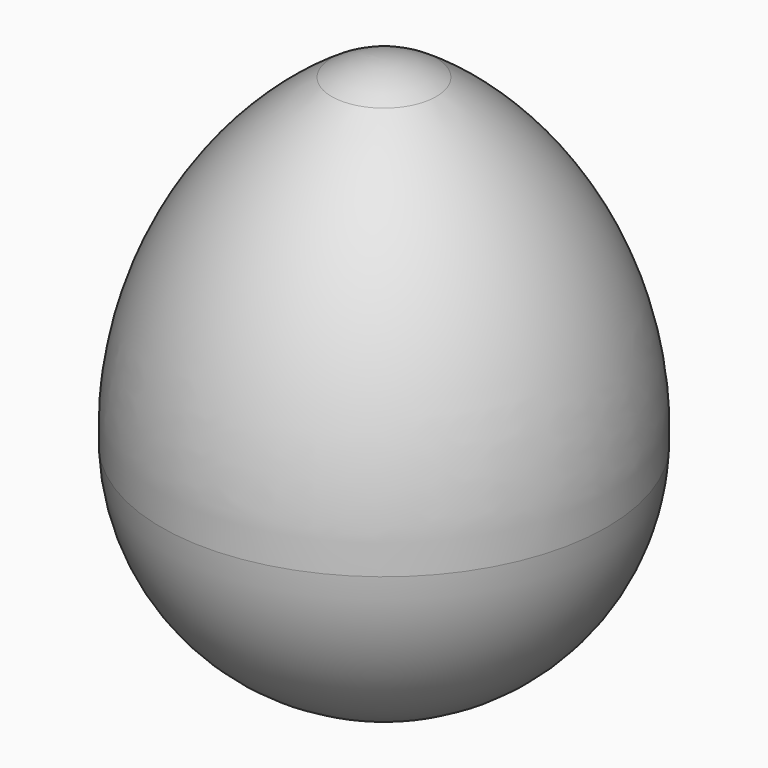
from build123d import *


with BuildPart() as f1:
    # F0 (on Front) → F1 (revolve)
    with BuildSketch(Plane.XZ):
        with BuildLine():
            Line((-42.1992093325, 0), (-46.723879627, 0))
            ThreePointArc((-46.723879627, 0), (-33.4376939975, -29.8994373371), (-3.1046010554, -42.1633092468))
            Line((-3.1046010554, -42.1633092468), (-3.1046010554, -38.0268829808))
            ThreePointArc((-3.1046010554, -38.0268829808), (-30.6024380396, -27.1872107513), (-42.1992093325, 0))
        make_face()
        with BuildLine():
            ThreePointArc((-13.3438592987, 63.3885215544), (-38.4421208851, 36.1219962176), (-46.723879627, 0))
            Line((-46.723879627, 0), (-42.1992093325, 0))
            ThreePointArc((-42.1992093325, 0), (-31.7150027694, 36.4738531047), (-3.1046010554, 61.4078752697))
            Line((-3.1046010554, 61.4078752697), (-3.1046010554, 66.3742727196))
            ThreePointArc((-3.1046010554, 66.3742727196), (-8.4374501859, 65.6126083506), (-13.3438592987, 63.3885215544))
        make_face()
    revolve(axis=Axis((-3.1046010554, 0, 63.8910739946), (0, 0, -1)))


solid = f1.part
